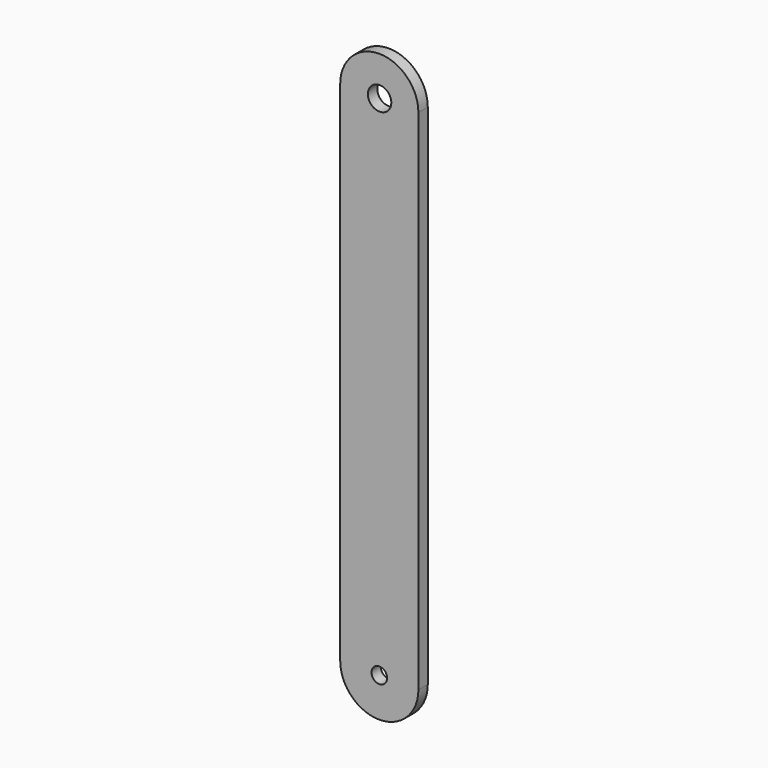
from build123d import *

# Parameters (mm, degrees)
F0_R     = 10
F0_R_2   = 15
F1_DEPTH = 15


with BuildPart() as f1:
    # F0 (on Front) → F1 (new body)
    with BuildSketch(Plane.XZ):
        with BuildLine():
            ThreePointArc((92.840909, 453.603581), (42.840909, 503.603581), (-7.159091, 453.603581))
            Line((-7.159091, 453.603581), (-7.159091, -196.396419))
            ThreePointArc((-7.159091, -196.396419), (42.840909, -246.396419), (92.840909, -196.396419))
            Line((92.840909, -196.396419), (92.840909, 453.603581))
        make_face()
        with Locations((42.840909, -196.396419)):
            Circle(F0_R, mode=Mode.SUBTRACT)
        with Locations((43.185845, 453.461479)):
            Circle(F0_R_2, mode=Mode.SUBTRACT)
    extrude(amount=F1_DEPTH)


solid = f1.part
